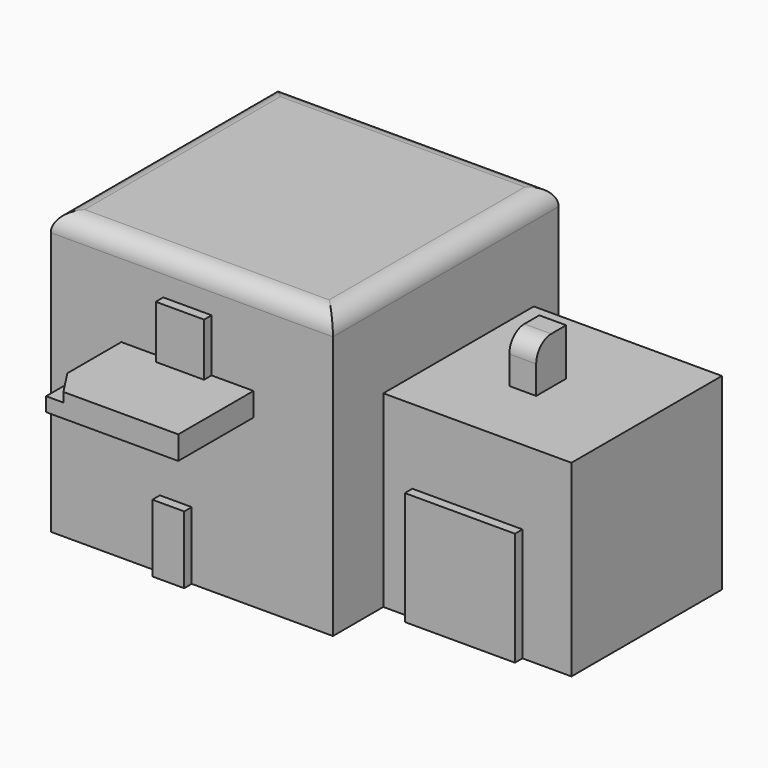
from build123d import *

# Parameters (mm, degrees)
F0_W      = 76.2
F0_H      = 76.2
F1_DEPTH  = 76.2
F2_W      = 50.8
F2_H      = 50.8
F3_DEPTH  = 50.8
F4_W      = 7.2508919984
F4_H      = 10.1156122983
F5_DEPTH  = 12.7
F6_R      = 5.08
F7_W      = 8.5941962898
F7_H      = 18.2563401759
F8_DEPTH  = 2.54
F10_W     = 29.7498870641
F10_H     = 30.6668374687
F11_DEPTH = 2.54
F12_R     = 5.08
F13_W     = 35.6998704374
F13_H     = 3.7890225649
F14_DEPTH = 25.4
F16_W     = 13.0332894623
F16_H     = 16.8449506164
F17_DEPTH = 2.54
F18_DEPTH = 2.54
F19_DEPTH = 2.54


with BuildPart() as f1:
    # F0 (on Top) → F1 (new body)
    with BuildSketch(Plane.XY):
        with Locations((-38.1, 38.1)):
            Rectangle(F0_W, F0_H)
    extrude(amount=F1_DEPTH)

    # F2 (on face) → F3 (join)
    with BuildSketch(Plane.YZ):
        with Locations((42.4093476772, 25.4)):
            Rectangle(F2_W, F2_H)
    extrude(amount=F3_DEPTH)

    # F4 (on face) → F5 (join)
    with BuildSketch(Plane.XY.offset(50.8)):
        with Locations((22.3073018715, 41.2539299577)):
            Rectangle(F4_W, F4_H)
    extrude(amount=F5_DEPTH)

    # F6
    f6_edges = [f1.edges().sort_by_distance(p)[0] for p in [
        (22.307302, 36.196124, 63.5),
    ]]
    fillet(f6_edges, radius=F6_R)

    # F7 (on face) → F8 (join)
    with BuildSketch(Plane.XZ):
        with Locations((-42.4338337034, 9.1281700879)):
            Rectangle(F7_W, F7_H)
    extrude(amount=F8_DEPTH)

    # F10 (on face) → F11 (join)
    with BuildSketch(Plane.XZ.offset(-17.0093476772)):
        with Locations((22.7058520541, 15.3334187344)):
            Rectangle(F10_W, F10_H)
    extrude(amount=F11_DEPTH)

    # F12
    f12_edges = [f1.edges().sort_by_distance(p)[0] for p in [
        (-38.1, 0, 76.2),
        (0, 38.1, 76.2),
        (-38.1, 76.2, 76.2),
        (-76.2, 38.1, 76.2),
    ]]
    fillet(f12_edges, radius=F12_R)

    # F13 (on face) → F14 (join)
    with BuildSketch(Plane.XZ):
        with Locations((-39.2985325307, 46.8699112535)):
            Rectangle(F13_W, F13_H)
    extrude(amount=F14_DEPTH)

    # F16 (on face) → F17 (join)
    with BuildSketch(Plane.XZ):
        with Locations((-39.2985325307, 57.1868978441)):
            Rectangle(F16_W, F16_H)
    extrude(amount=F17_DEPTH)

    # F15 (on face) → F18 (join)
    with BuildSketch(Plane.XY.offset(48.7644225359)):
        Polygon((-57.1484677494, -18.2180759441), (-52.4711199105, -25.4), (-48.1553934515, -25.4), (-57.1484677494, -11.2543340924), align=None)
    extrude(amount=F18_DEPTH)

    # F19 (add): a face of the model
    f19_faces = [f1.faces().sort_by_distance(p)[0] for p in [
        (-38.1323314504, -12.5401378745, 48.7644225359),
    ]]
    extrude(f19_faces, amount=F19_DEPTH)


solid = f1.part
